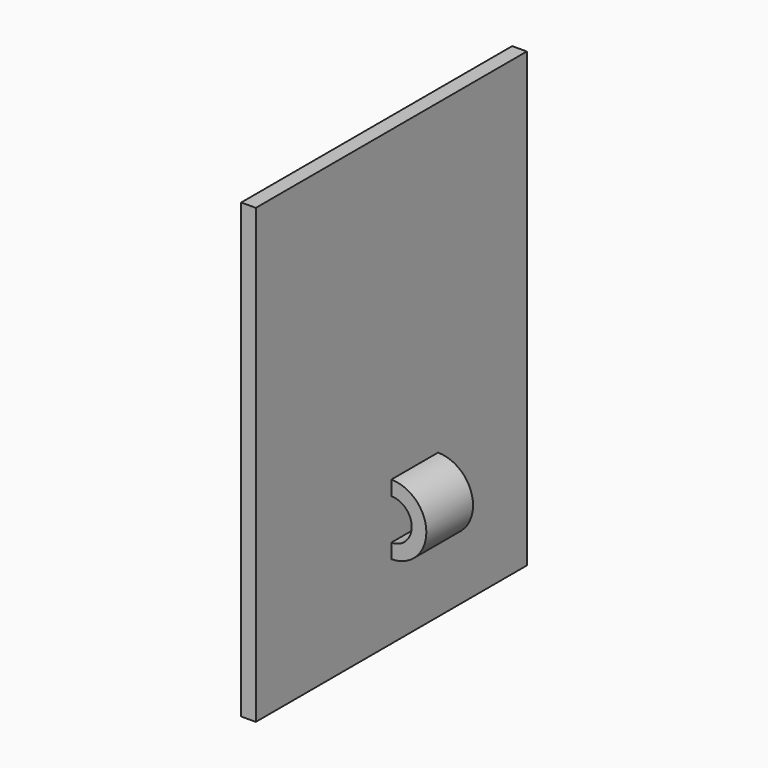
from build123d import *

# Parameters (mm, degrees)
F0_W     = 73.66
F0_H     = 98.425
F1_DEPTH = 3.175
F3_DEPTH = 12.7


with BuildPart() as f1:
    # F0 (on Right) → F1 (new body)
    with BuildSketch(Plane.YZ):
        Rectangle(F0_W, F0_H)
    extrude(amount=-F1_DEPTH)

    # F2 (on Front) → F3 (join)
    with BuildSketch(Plane.XZ):
        with BuildLine():
            Line((0, -29.845), (0, -33.02))
            ThreePointArc((0, -33.02), (7.62, -25.4), (0, -17.78))
            Line((0, -17.78), (0, -20.955))
            ThreePointArc((0, -20.955), (4.445, -25.4), (0, -29.845))
        make_face()
    extrude(amount=-F3_DEPTH)


solid = f1.part
